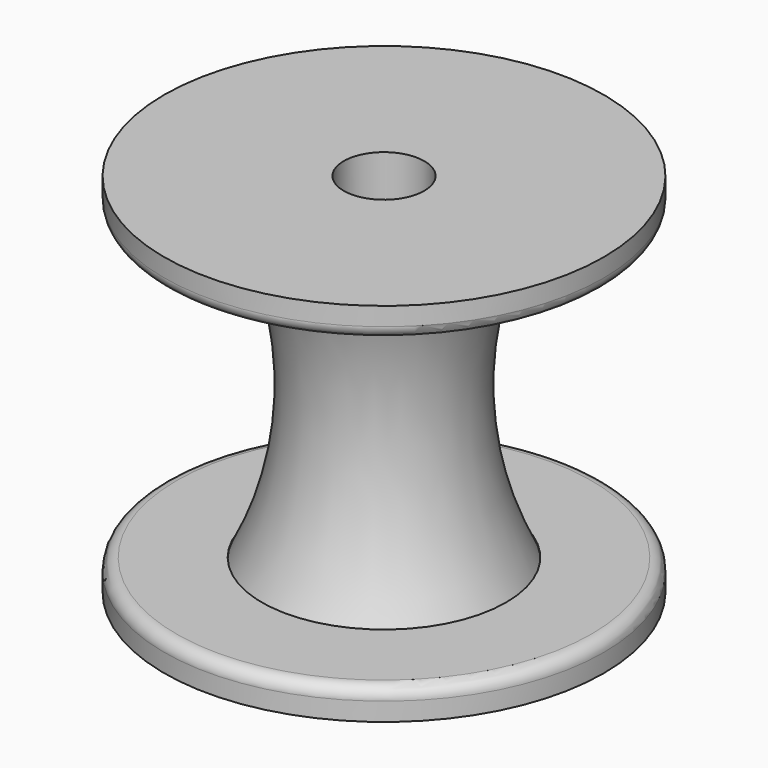
from build123d import *

# Parameters (mm, degrees)
F0_R      = 10
F0_R_2    = 3.3
F1_DEPTH  = 15
F2_DEPTH  = 15
F4_R      = 28
F6_R      = 18
F6_R_2    = 10
F7_DEPTH  = 2.5
F8_R      = 1
F9_R      = 18
F9_R_2    = 10
F10_DEPTH = 2.5
F11_R     = 1


with BuildPart() as f1:
    # F0 (on Top) → F1 (new body)
    with BuildSketch(Plane.XY):
        with Locations((-61.262965, -46.257019)):
            Circle(F0_R)
        with Locations((-61.262965, -46.257019)):
            Circle(F0_R_2, mode=Mode.SUBTRACT)
    extrude(amount=F1_DEPTH)

    # F0 (on Top) → F2 (join)
    with BuildSketch(Plane.XY):
        with Locations((-61.262965, -46.257019)):
            Circle(F0_R)
        with Locations((-61.262965, -46.257019)):
            Circle(F0_R_2, mode=Mode.SUBTRACT)
    extrude(amount=-F2_DEPTH)

    # F5: sweep along a path in F0
    with BuildLine(Plane.XY) as f5_path:
        CenterArc((-61.262965, -46.257019), 10, 0, 360)
    # F4 (on face) → F5 (sweep, cut)
    with BuildSketch(Plane.XZ.offset(46.257019)):
        with Locations((-26.262965, 0)):
            Circle(F4_R)
    sweep(path=f5_path.line, mode=Mode.SUBTRACT)

    # F6 (on face) → F7 (join)
    with BuildSketch(Plane.XY.offset(15)):
        with Locations((-61.262965, -46.257019)):
            Circle(F6_R)
        with Locations((-61.262965, -46.257019)):
            Circle(F6_R_2, mode=Mode.SUBTRACT)
    extrude(amount=-F7_DEPTH)

    # F8
    f8_edges = [f1.edges().sort_by_distance(p)[0] for p in [
        (-79.262965, -46.257019, 12.5),
    ]]
    fillet(f8_edges, radius=F8_R)

    # F9 (on face) → F10 (join)
    with BuildSketch(Plane(origin=(0, 0, -15), x_dir=(1, 0, 0), z_dir=(0, 0, -1))):
        with Locations((-61.262965, 46.257019)):
            Circle(F9_R)
        with Locations((-61.262965, 46.257019)):
            Circle(F9_R_2, mode=Mode.SUBTRACT)
    extrude(amount=-F10_DEPTH)

    # F11
    f11_edges = [f1.edges().sort_by_distance(p)[0] for p in [
        (-79.262965, -46.257019, -12.5),
    ]]
    fillet(f11_edges, radius=F11_R)


solid = f1.part
